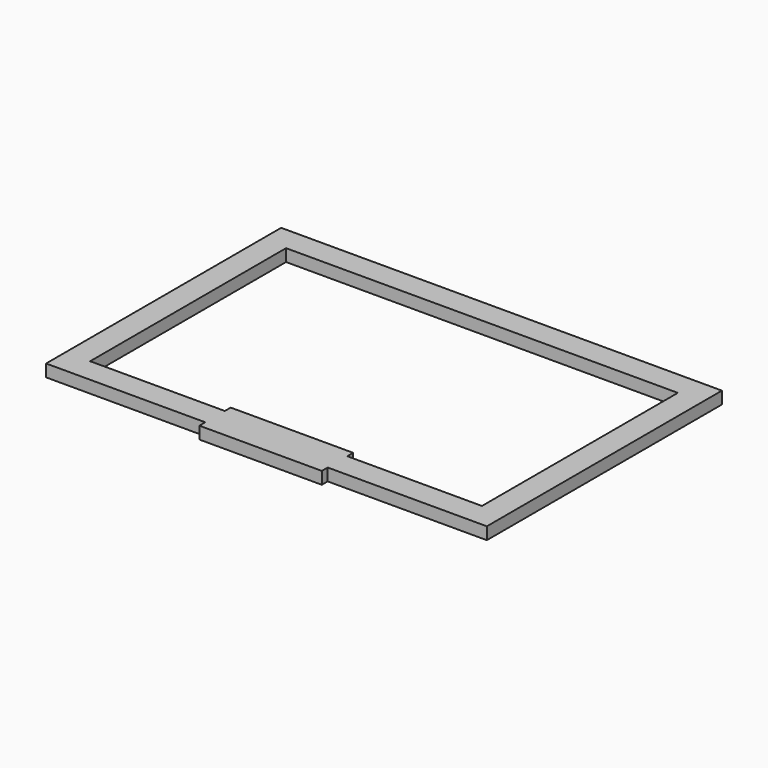
from build123d import *

# Parameters (mm, degrees)
F1_DEPTH = 25


with BuildPart() as f1:
    # F0 (on Top) → F1 (new body)
    with BuildSketch(Plane.XY):
        Polygon((900, 0), (0, 0), (0, -550), (50, -550), (50, -50), (850, -50), (850, -550), (575, -550), (575, -600), (900, -600), align=None)
        Polygon((50, -550), (0, -550), (0, -600), (325, -600), (325, -550), align=None)
        Polygon((575, -615), (575, -600), (575, -550), (575, -535), (325, -535), (325, -550), (325, -600), (325, -615), align=None)
    extrude(amount=F1_DEPTH)


solid = f1.part
